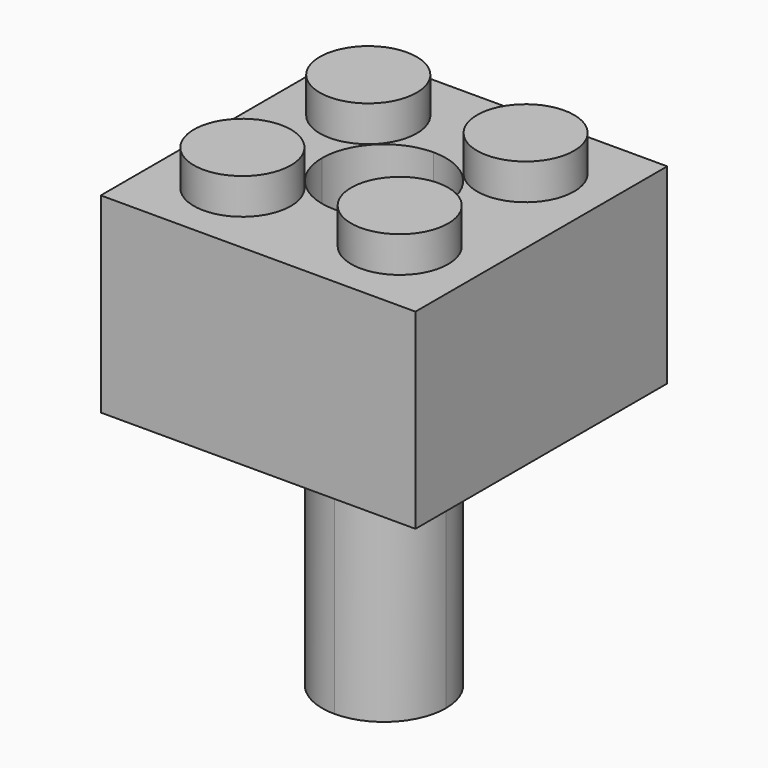
from build123d import *

# Parameters (mm, degrees)
F0_R     = 2.435
F1_DEPTH = 9.6
F2_DEPTH = 11.4
F3_T     = -1.4
F4_DEPTH = 12.7


with BuildPart() as f1:
    # F0 (on Top) → F1 (new body)
    with BuildSketch(Plane.XY):
        with BuildLine():
            Line((-47.0723696053, 44.0184217036), (-47.0723696053, 36.1184217036))
            Line((-47.0723696053, 36.1184217036), (-39.1723696053, 36.1184217036))
            Line((-39.1723696053, 36.1184217036), (-39.1723696053, 40.9119217036))
            ThreePointArc((-39.1723696053, 40.9119217036), (-41.3689968211, 41.8217944878), (-42.2788696053, 44.0184217036))
            Line((-42.2788696053, 44.0184217036), (-47.0723696053, 44.0184217036))
        make_face()
        with Locations((-43.1223696053, 40.0684217036)):
            Circle(F0_R, mode=Mode.SUBTRACT)
        with BuildLine():
            Line((-39.1723696053, 40.9119217036), (-39.1723696053, 36.1184217036))
            Line((-39.1723696053, 36.1184217036), (-31.2723696053, 36.1184217036))
            Line((-31.2723696053, 36.1184217036), (-31.2723696053, 44.0184217036))
            Line((-31.2723696053, 44.0184217036), (-36.0658696053, 44.0184217036))
            ThreePointArc((-36.0658696053, 44.0184217036), (-36.9757423895, 41.8217944878), (-39.1723696053, 40.9119217036))
        make_face()
        with Locations((-35.2223696053, 40.0684217036)):
            Circle(F0_R, mode=Mode.SUBTRACT)
        with BuildLine():
            Line((-47.0723696053, 51.9184217036), (-47.0723696053, 44.0184217036))
            Line((-47.0723696053, 44.0184217036), (-42.2788696053, 44.0184217036))
            ThreePointArc((-42.2788696053, 44.0184217036), (-41.3689968211, 46.2150489193), (-39.1723696053, 47.1249217036))
            Line((-39.1723696053, 47.1249217036), (-39.1723696053, 51.9184217036))
            Line((-39.1723696053, 51.9184217036), (-47.0723696053, 51.9184217036))
        make_face()
        with BuildLine():
            ThreePointArc((-45.5573696053, 47.9684217036), (-43.1223696053, 50.4034217036), (-40.6873696053, 47.9684217036))
            ThreePointArc((-40.6873696053, 47.9684217036), (-43.1223696053, 45.5334217036), (-45.5573696053, 47.9684217036))
        make_face(mode=Mode.SUBTRACT)
        with BuildLine():
            Line((-36.0658696053, 44.0184217036), (-31.2723696053, 44.0184217036))
            Line((-31.2723696053, 44.0184217036), (-31.2723696053, 51.9184217036))
            Line((-31.2723696053, 51.9184217036), (-39.1723696053, 51.9184217036))
            Line((-39.1723696053, 51.9184217036), (-39.1723696053, 47.1249217036))
            ThreePointArc((-39.1723696053, 47.1249217036), (-36.9757423895, 46.2150489193), (-36.0658696053, 44.0184217036))
        make_face()
        with Locations((-35.2223696053, 47.9684217036)):
            Circle(F0_R, mode=Mode.SUBTRACT)
    extrude(amount=F1_DEPTH)

    # F0 (on Top) → F2 (join)
    with BuildSketch(Plane.XY):
        with Locations((-35.2223696053, 40.0684217036)):
            Circle(F0_R)
        with Locations((-35.2223696053, 47.9684217036)):
            Circle(F0_R)
        with BuildLine():
            ThreePointArc((-45.5573696053, 47.9684217036), (-43.1223696053, 45.5334217036), (-40.6873696053, 47.9684217036))
            ThreePointArc((-40.6873696053, 47.9684217036), (-43.1223696053, 50.4034217036), (-45.5573696053, 47.9684217036))
        make_face()
        with Locations((-43.1223696053, 40.0684217036)):
            Circle(F0_R)
    extrude(amount=F2_DEPTH)

    # F3
    f3_openings = [f1.faces().sort_by_distance(p)[0] for p in [
        (-39.17237, 36.341867, 0),
    ]]
    offset(amount=F3_T, openings=f3_openings, kind=Kind.INTERSECTION)


with BuildPart() as f4:
    # F0 (on Top) → F4 (new body)
    with BuildSketch(Plane.XY):
        with BuildLine():
            ThreePointArc((-41.9788695872, 44.0184217036), (-41.1568647739, 42.033926535), (-39.1723696053, 41.2119217217))
            Line((-39.1723696053, 41.2119217217), (-39.1723696053, 44.0184217036))
            Line((-39.1723696053, 44.0184217036), (-41.9788695872, 44.0184217036))
        make_face()
        with BuildLine():
            ThreePointArc((-39.1723696053, 46.8249216855), (-41.1568647739, 46.0029168722), (-41.9788695872, 44.0184217036))
            Line((-41.9788695872, 44.0184217036), (-39.1723696053, 44.0184217036))
            Line((-39.1723696053, 44.0184217036), (-39.1723696053, 46.8249216855))
        make_face()
        with BuildLine():
            Line((-39.1723696053, 46.8249216855), (-39.1723696053, 44.0184217036))
            Line((-39.1723696053, 44.0184217036), (-36.3658696234, 44.0184217036))
            ThreePointArc((-36.3658696234, 44.0184217036), (-37.1878744367, 46.0029168722), (-39.1723696053, 46.8249216855))
        make_face()
        with BuildLine():
            Line((-39.1723696053, 44.0184217036), (-39.1723696053, 41.2119217217))
            ThreePointArc((-39.1723696053, 41.2119217217), (-37.1878744367, 42.033926535), (-36.3658696234, 44.0184217036))
            Line((-36.3658696234, 44.0184217036), (-39.1723696053, 44.0184217036))
        make_face()
        with BuildLine():
            ThreePointArc((-39.1723696053, 47.1249217036), (-41.3689968211, 46.2150489193), (-42.2788696053, 44.0184217036))
            Line((-42.2788696053, 44.0184217036), (-41.9788695872, 44.0184217036))
            ThreePointArc((-41.9788695872, 44.0184217036), (-41.1568647739, 46.0029168722), (-39.1723696053, 46.8249216855))
            Line((-39.1723696053, 46.8249216855), (-39.1723696053, 47.1249217036))
        make_face()
        with BuildLine():
            Line((-36.3658696234, 44.0184217036), (-36.0658696053, 44.0184217036))
            ThreePointArc((-36.0658696053, 44.0184217036), (-36.9757423895, 46.2150489193), (-39.1723696053, 47.1249217036))
            Line((-39.1723696053, 47.1249217036), (-39.1723696053, 46.8249216855))
            ThreePointArc((-39.1723696053, 46.8249216855), (-37.1878744367, 46.0029168722), (-36.3658696234, 44.0184217036))
        make_face()
        with BuildLine():
            Line((-39.1723696053, 41.2119217217), (-39.1723696053, 40.9119217036))
            ThreePointArc((-39.1723696053, 40.9119217036), (-36.9757423895, 41.8217944878), (-36.0658696053, 44.0184217036))
            Line((-36.0658696053, 44.0184217036), (-36.3658696234, 44.0184217036))
            ThreePointArc((-36.3658696234, 44.0184217036), (-37.1878744367, 42.033926535), (-39.1723696053, 41.2119217217))
        make_face()
        with BuildLine():
            ThreePointArc((-42.2788696053, 44.0184217036), (-41.3689968211, 41.8217944878), (-39.1723696053, 40.9119217036))
            Line((-39.1723696053, 40.9119217036), (-39.1723696053, 41.2119217217))
            ThreePointArc((-39.1723696053, 41.2119217217), (-41.1568647739, 42.033926535), (-41.9788695872, 44.0184217036))
            Line((-41.9788695872, 44.0184217036), (-42.2788696053, 44.0184217036))
        make_face()
    extrude(amount=-F4_DEPTH)


solid = Compound([f1.part, f4.part])
